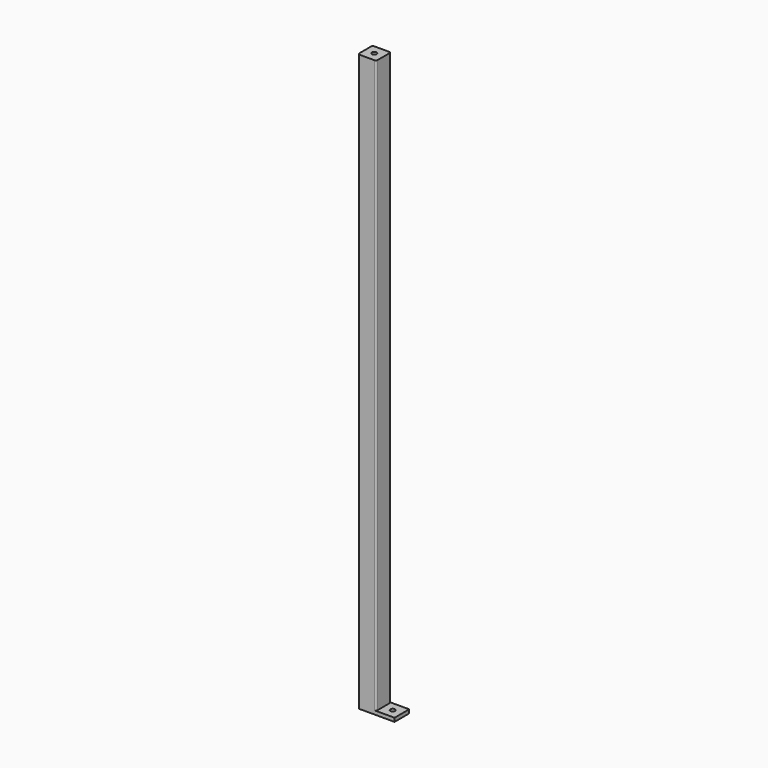
from build123d import *

# Parameters (mm, degrees)
F0_W     = 40
F0_H     = 40
F1_DEPTH = 1550
F2_R     = 6.5
F3_DEPTH = 10
F4_R     = 6.5
F5_DEPTH = 10


with BuildPart() as f1:
    # F0 (on Top) → F1 (new body)
    with BuildSketch(Plane.XY):
        with BuildLine():
            Line((-20, -25), (20, -25))
            ThreePointArc((20, -25), (23.535534, -23.535534), (25, -20))
            Line((25, -20), (25, 20))
            ThreePointArc((25, 20), (23.535534, 23.535534), (20, 25))
            Line((20, 25), (-20, 25))
            ThreePointArc((-20, 25), (-23.535534, 23.535534), (-25, 20))
            Line((-25, 20), (-25, -20))
            ThreePointArc((-25, -20), (-23.535534, -23.535534), (-20, -25))
        make_face()
        Rectangle(F0_W, F0_H, mode=Mode.SUBTRACT)
    extrude(amount=F1_DEPTH)

    # F2 (on face) → F3 (join)
    with BuildSketch(Plane.XY.offset(1550)):
        with BuildLine():
            Line((20, 25), (-20, 25))
            ThreePointArc((-20, 25), (-23.535534, 23.535534), (-25, 20))
            Line((-25, 20), (-25, -20))
            ThreePointArc((-25, -20), (-23.535534, -23.535534), (-20, -25))
            Line((-20, -25), (20, -25))
            ThreePointArc((20, -25), (23.535534, -23.535534), (25, -20))
            Line((25, -20), (25, 20))
            ThreePointArc((25, 20), (23.535534, 23.535534), (20, 25))
        make_face()
        Circle(F2_R, mode=Mode.SUBTRACT)
    extrude(amount=F3_DEPTH)

    # F4 (on face) → F5 (join)
    with BuildSketch(Plane(origin=(0, 0, 0), x_dir=(1, 0, 0), z_dir=(0, 0, -1))):
        with BuildLine():
            ThreePointArc((-20, 25), (-23.535534, 23.535534), (-25, 20))
            Line((-25, 20), (-25, -20))
            ThreePointArc((-25, -20), (-23.535534, -23.535534), (-20, -25))
            Line((-20, -25), (75, -25))
            Line((75, -25), (75, 25))
            Line((75, 25), (-20, 25))
        make_face()
        with Locations((50, 0)):
            Circle(F4_R, mode=Mode.SUBTRACT)
    extrude(amount=F5_DEPTH)


solid = f1.part
